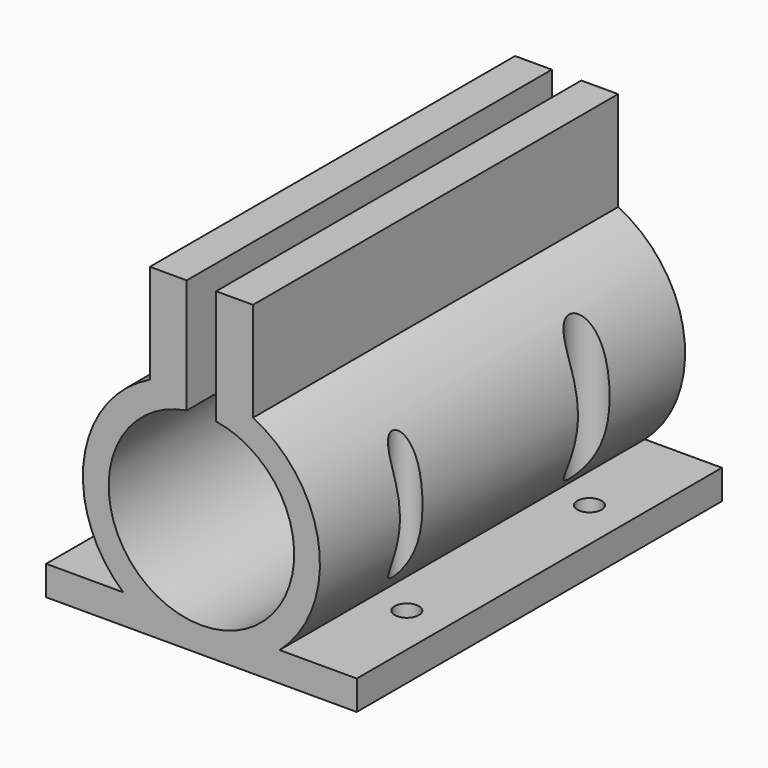
from build123d import *

# Parameters (mm, degrees)
F1_DEPTH = 62
F2_R     = 1.65
F3_DEPTH = 25
F4_R     = 2
F4_R_2   = 2.75
F5_DEPTH = 25


with BuildPart() as f1:
    # F0 (on Front) → F1 (new body)
    with BuildSketch(Plane.XZ):
        with BuildLine():
            ThreePointArc((2, 12.440257), (0, -12.6), (-2, 12.440257))
            Line((-2, 12.440257), (-2, 28))
            Line((-2, 28), (-7, 28))
            Line((-7, 28), (-7, 14.498621))
            ThreePointArc((-7, 14.498621), (-15.952875, 2.171583), (-10.620734, -12.1))
            Line((-10.620734, -12.1), (-21.1, -12.1))
            Line((-21.1, -12.1), (-21.1, -16.1))
            Line((-21.1, -16.1), (0, -16.1))
            Line((0, -16.1), (21.1, -16.1))
            Line((21.1, -16.1), (21.1, -12.1))
            Line((21.1, -12.1), (10.620734, -12.1))
            ThreePointArc((10.620734, -12.1), (15.952875, 2.171583), (7, 14.498621))
            Line((7, 14.498621), (7, 28))
            Line((7, 28), (2, 28))
            Line((2, 28), (2, 12.440257))
        make_face()
    extrude(amount=F1_DEPTH)

    # F2 (on face) → F3 (cut)
    with BuildSketch(Plane.XY.offset(-12.1)):
        with Locations((15.5, -15.5)):
            Circle(F2_R)
        with Locations((15.5, -46.5)):
            Circle(F2_R)
        with Locations((-15.5, -15.5)):
            Circle(F2_R)
        with Locations((-15.5, -46.5)):
            Circle(F2_R)
    extrude(amount=-F3_DEPTH, mode=Mode.SUBTRACT)

    # F4 (on face) → F5 (cut)
    with BuildSketch(Plane.XY.offset(-12.1)):
        with Locations((15.5, -46.5)):
            Circle(F4_R)
        with Locations((15.5, -15.5)):
            Circle(F4_R_2)
    extrude(amount=F5_DEPTH, mode=Mode.SUBTRACT)


solid = f1.part
